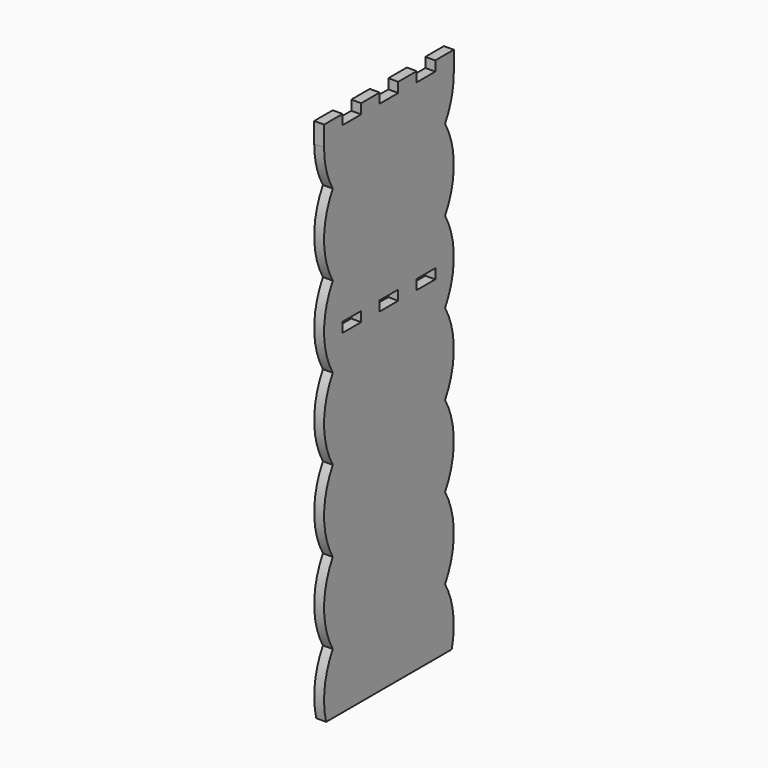
from build123d import *

# Parameters (mm, degrees)
F0_W     = 14.51356
F0_H     = 6.1849
F1_DEPTH = 6.1849


with BuildPart() as f1:
    # F0 (on Right) → F1 (new body)
    with BuildSketch(Plane.YZ):
        with BuildLine():
            Line((-49.186888, -165.1), (49.186888, -165.1))
            ThreePointArc((49.186888, -165.1), (50.334642, -145.539695), (43.994091, -127))
            ThreePointArc((43.994091, -127), (50.8, -101.6), (43.994091, -76.2))
            ThreePointArc((43.994091, -76.2), (50.8, -50.8), (43.994091, -25.4))
            ThreePointArc((43.994091, -25.4), (50.8, 0), (43.994091, 25.4))
            ThreePointArc((43.994091, 25.4), (50.8, 50.8), (43.994091, 76.2))
            ThreePointArc((43.994091, 76.2), (49.446654, 89.952322), (50.705786, 104.69245))
            ThreePointArc((50.705786, 104.69245), (48.645856, 116.236281), (43.993945, 127.000252))
            ThreePointArc((43.993945, 127.000252), (49.068793, 139.25213), (50.799729, 152.4))
            Line((50.799729, 152.4), (50.8, 165.1))
            Line((50.8, 165.1), (50.79492, 165.1))
            Line((50.79492, 165.1), (36.28136, 165.1))
            Line((36.28136, 165.1), (36.28136, 158.9151))
            Line((36.28136, 158.9151), (21.7678, 158.9151))
            Line((21.7678, 158.9151), (21.7678, 165.1))
            Line((21.7678, 165.1), (7.25424, 165.1))
            Line((7.25424, 165.1), (7.25424, 158.9151))
            Line((7.25424, 158.9151), (-0.00254, 158.9151))
            Line((-0.00254, 158.9151), (-7.25932, 158.9151))
            Line((-7.25932, 158.9151), (-7.25932, 165.1))
            Line((-7.25932, 165.1), (-21.77288, 165.1))
            Line((-21.77288, 165.1), (-21.77288, 158.9151))
            Line((-21.77288, 158.9151), (-36.28644, 158.9151))
            Line((-36.28644, 158.9151), (-36.28644, 165.1))
            Line((-36.28644, 165.1), (-50.8, 165.1))
            Line((-50.8, 165.1), (-50.800019, 152.4))
            ThreePointArc((-50.800019, 152.4), (-49.069046, 139.25199), (-43.994091, 127))
            ThreePointArc((-43.994091, 127), (-50.8, 101.6), (-43.994091, 76.2))
            ThreePointArc((-43.994091, 76.2), (-50.8, 50.8), (-43.994091, 25.4))
            ThreePointArc((-43.994091, 25.4), (-50.8, 0), (-43.994091, -25.4))
            ThreePointArc((-43.994091, -25.4), (-50.8, -50.8), (-43.994091, -76.2))
            ThreePointArc((-43.994091, -76.2), (-50.8, -101.6), (-43.994091, -127))
            ThreePointArc((-43.994091, -127), (-50.334642, -145.539695), (-49.186888, -165.1))
        make_face()
        with Locations((-29.02966, 47.37735)):
            Rectangle(F0_W, F0_H, mode=Mode.SUBTRACT)
        Polygon((7.25424, 44.2849), (0, 44.2849), (-0.00508, 44.2849), (-7.25932, 44.2849), (-7.25932, 50.4698), (-0.00254, 50.4698), (0, 50.4698), (7.25424, 50.4698), align=None, mode=Mode.SUBTRACT)
        with Locations((29.02458, 47.37735)):
            Rectangle(F0_W, F0_H, mode=Mode.SUBTRACT)
    extrude(amount=F1_DEPTH)


solid = f1.part
